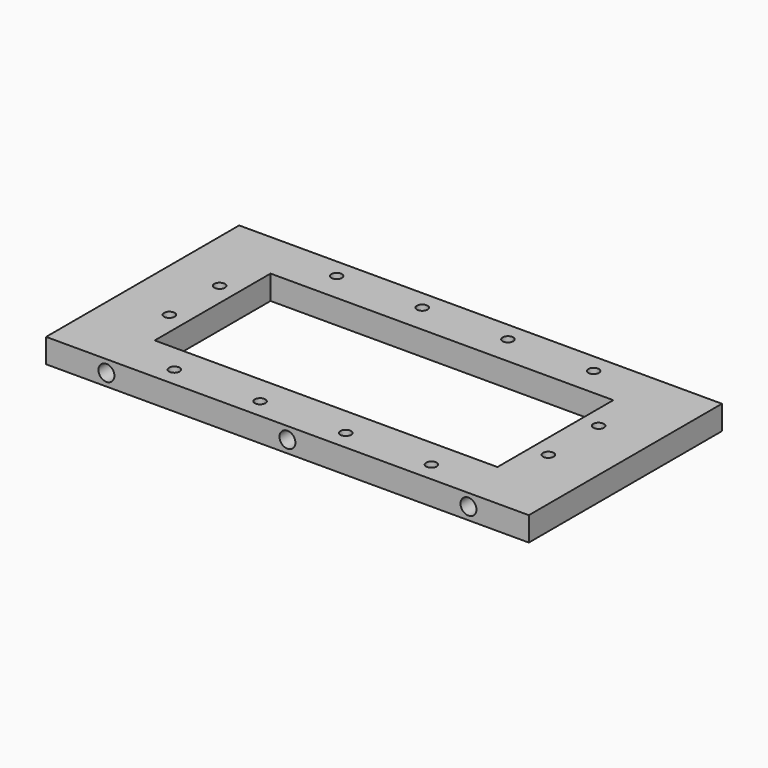
from build123d import *

# Parameters (mm, degrees)
F0_W     = 400
F0_H     = 200
F0_W_2   = 284
F0_H_2   = 120
F1_DEPTH = 20
F2_D     = 8.8
F4_D     = 13.2
F4_DEPTH = 50
F4_TIP   = 3.9656800856


with BuildPart() as f1:
    # F0 (on Top) → F1 (new body)
    with BuildSketch(Plane.XY):
        with Locations((0, 100)):
            Rectangle(F0_W, F0_H)
        with Locations((0, 100)):
            Rectangle(F0_W_2, F0_H_2, mode=Mode.SUBTRACT)
    extrude(amount=F1_DEPTH)

    # F2 (through all)
    with Locations(Plane(origin=(0, 0, 0), x_dir=(1, 0, 0), z_dir=(0, 0, -1))):
        with Locations((-157, -126), (-157, -74), (-106.5, -16), (-35.5, -16), (35.5, -16), (106.5, -16), (157, -74), (157, -126), (106.5, -184), (35.5, -184), (-35.5, -184), (-106.5, -184)):
            Hole(F2_D / 2)

    # F4
    with Locations(Plane.XZ):
        with Locations((-150, 10), (150, 10), (0, 10)):
            Hole(F4_D / 2, depth=F4_DEPTH)
            with Locations((0, 0, -(F4_DEPTH + F4_TIP / 2))):  # 118° drill point
                Cone(0, F4_D / 2, F4_TIP, mode=Mode.SUBTRACT)


solid = f1.part
